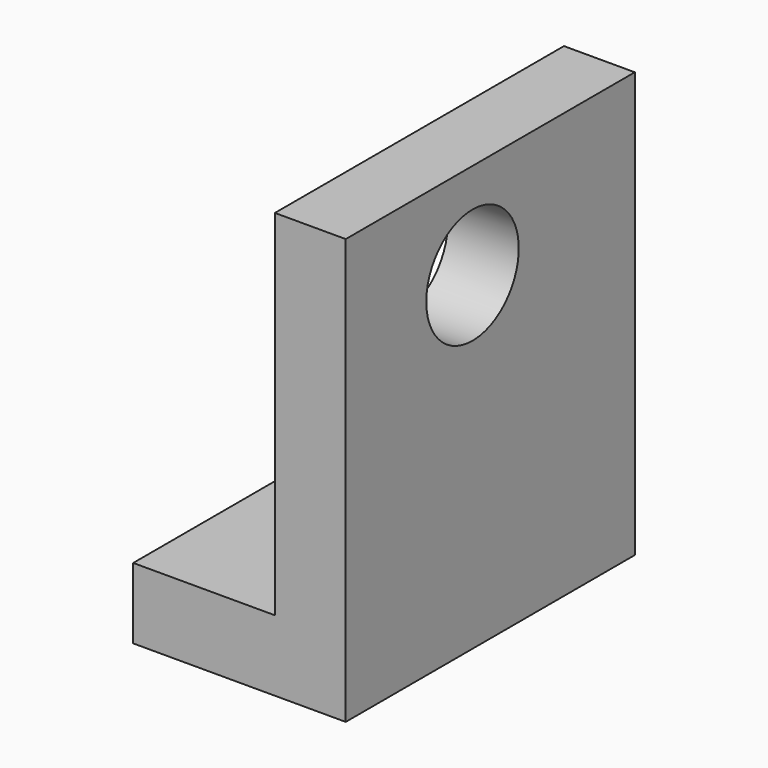
from build123d import *

# Parameters (mm, degrees)
F1_DEPTH = 12.7
F2_DEPTH = 129.54
F3_R     = 20.726602
F4_DEPTH = 217.424


with BuildPart() as f1:
    # F0 (on Front) → F1 (new body, symmetric)
    with BuildSketch(Plane.XZ):
        Polygon((-76.2, 25.4), (-76.2, 0), (0, 0), (0, 152.4), (-25.4, 152.4), (-25.4, 25.4), align=None)
    extrude(amount=F1_DEPTH, both=True)

    # F1_face (on face) → F2 (join)
    with BuildSketch(Plane(origin=(-22.225, -12.7, 60.325), x_dir=(1, 0, 0), z_dir=(0, -1, 0))):
        Polygon((-53.975, -34.925), (-53.975, -60.325), (22.225, -60.325), (22.225, 92.075), (-3.175, 92.075), (-3.175, -34.925), align=None)
    extrude(amount=-F2_DEPTH)

    # F3 (on face) → F4 (cut, symmetric)
    with BuildSketch(Plane(origin=(-25.4, 0, 0), x_dir=(0, -1, 0), z_dir=(-1, 0, 0))):
        with Locations((-44.110455, 117.932089)):
            Circle(F3_R)
    extrude(amount=F4_DEPTH, both=True, mode=Mode.SUBTRACT)


solid = f1.part
